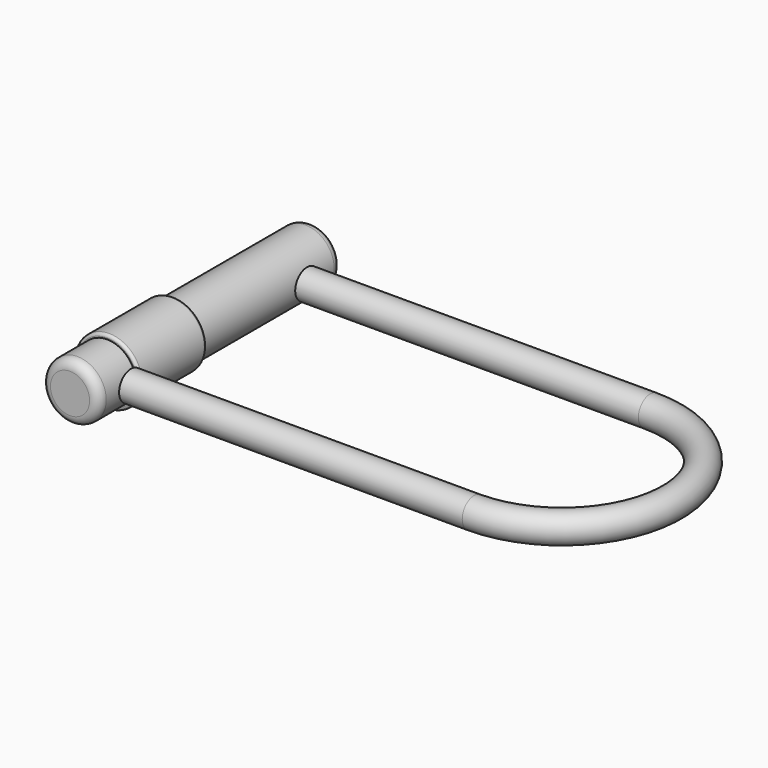
from build123d import *

# Parameters (mm, degrees)
F2_R = 5
F3_R = 1.5
F6_R = 8


with BuildPart() as f1:
    # F0 (on Top) → F1 (revolve)
    with BuildSketch(Plane.XY):
        Polygon((0, 164), (0, 0), (15.575, 0), (15.575, 25), (17.8, 25), (17.8, 70), (15.575, 70), (15.575, 164), align=None)
    revolve(axis=Axis((0, 82, 0), (0, 1, 0)))

    # F2
    f2_edges = [f1.edges().sort_by_distance(p)[0] for p in [
        (-15.575, 164, 0),
        (-15.575, 0, 0),
    ]]
    fillet(f2_edges, radius=F2_R)

    # F3
    f3_edges = [f1.edges().sort_by_distance(p)[0] for p in [
        (-17.8, 70, 0),
        (-17.8, 25, 0),
    ]]
    fillet(f3_edges, radius=F3_R)


with BuildPart() as f7:
    # F7: sweep along a path in F4
    with BuildLine(Plane.XY) as f7_path:
        Line((15.575, 140.7), (201.075, 140.7))
        ThreePointArc((201.075, 140.7), (260.575, 81.2), (201.075, 21.7))
        Line((201.075, 21.7), (15.575, 21.7))
    # F6 (on plane+point) → F7 (sweep)
    with BuildSketch(Plane.YZ.offset(15.575)):
        with Locations((140.7, 0)):
            Circle(F6_R)
    sweep(path=f7_path.line)


solid = Compound([f1.part, f7.part])
